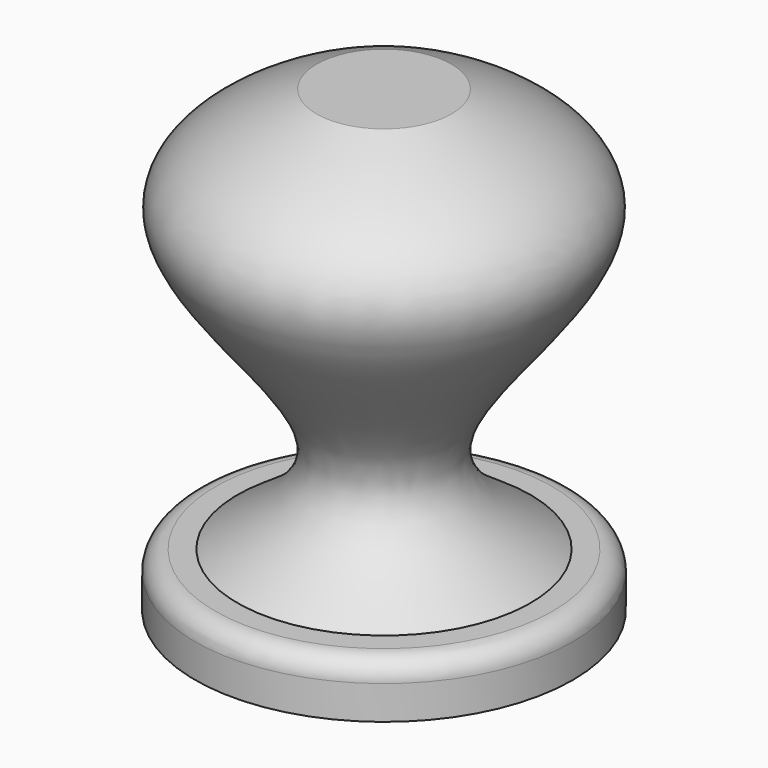
from build123d import *

# Parameters (mm, degrees)
F2_R           = 2.667
F3_DEPTH       = 25.4
F4_R           = 2.667
F5_DEPTH       = 25.654
F6_DEPTH       = 25.4
F8_DEPTH       = 6.604
F9_R           = 17.78
F10_DEPTH      = 5.08
F11_R          = 2.54
F12_DEPTH      = 5.08
F12_DEPTH_BACK = 25.4
F13_R          = 1.905


with BuildPart() as f1:
    # F0 (on Right) → F1 (revolve)
    with BuildSketch(Plane.YZ):
        with BuildLine():
            Line((-11.3018388831, 45.2855030986), (-17.6518388831, 45.2855030986))
            Line((-17.6518388831, 45.2855030986), (-17.6518388831, 7.1855030986))
            Line((-17.6518388831, 7.1855030986), (-3.8583281767, 7.1855030986))
            add(Edge.make_bspline(
                [(-11.3018388831, 45.2855030986), (-4.9886537294, 42.6732938219), (7.461546199, 35.5990041809), (-17.8341972837, 15.5947792754), (-7.3326148912, 9.581982695), (-3.8583281767, 7.1855030986)],
                knots=[0, 0, 0, 0, 0.327872835, 0.7175530921, 1, 1, 1, 1], degree=3))
        make_face()
    revolve(axis=Axis((0, -17.6518388831, 26.2355030986), (0, 0, -1)))

    # F2 (on face) → F3 (join)
    with BuildSketch(Plane(origin=(0, 0, 7.1855030986), x_dir=(1, 0, 0), z_dir=(0, 0, -1))):
        with Locations((0, 17.6518388831)):
            Circle(F2_R)
    extrude(amount=-F3_DEPTH)

    # F4 (on face) → F5 (join)
    with BuildSketch(Plane(origin=(0, 0, 7.1855030986), x_dir=(1, 0, 0), z_dir=(0, 0, -1))):
        with Locations((0, 17.6518388831)):
            Circle(F4_R)
    extrude(amount=-F5_DEPTH)

    # F4 (on face) → F6 (cut)
    with BuildSketch(Plane(origin=(0, 0, 7.1855030986), x_dir=(1, 0, 0), z_dir=(0, 0, -1))):
        with Locations((0, 17.6518388831)):
            Circle(F4_R)
    extrude(amount=-F6_DEPTH, mode=Mode.SUBTRACT)

    # F7 (on face) → F8 (cut)
    with BuildSketch(Plane(origin=(0, 0, 7.1855030986), x_dir=(1, 0, 0), z_dir=(0, 0, -1))):
        Polygon((-4.6193795038, 20.3188388831), (-4.6193795038, 14.9848388831), (0, 12.3178388831), (4.6193795038, 14.9848388831), (4.6193795038, 20.3188388831), (0, 22.9858388831), align=None)
    extrude(amount=-F8_DEPTH, mode=Mode.SUBTRACT)

    # F9 (on face) → F10 (join)
    with BuildSketch(Plane(origin=(0, 0, 7.1855030986), x_dir=(1, 0, 0), z_dir=(0, 0, -1))):
        with Locations((0, 17.6518388831)):
            Circle(F9_R)
    extrude(amount=F10_DEPTH)

    # F11 (on face) → F12 (cut, two sides)
    with BuildSketch(Plane(origin=(0, 0, 2.1055030986), x_dir=(1, 0, 0), z_dir=(0, 0, -1))) as f12_sk:
        with Locations((0, 17.6518388831)):
            Circle(F11_R)
    extrude(amount=-F12_DEPTH, mode=Mode.SUBTRACT)
    extrude(f12_sk.sketch, amount=F12_DEPTH_BACK, mode=Mode.SUBTRACT)

    # F13
    f13_edges = [f1.edges().sort_by_distance(p)[0] for p in [
        (-17.78, -17.651839, 7.185503),
    ]]
    fillet(f13_edges, radius=F13_R)


solid = f1.part
